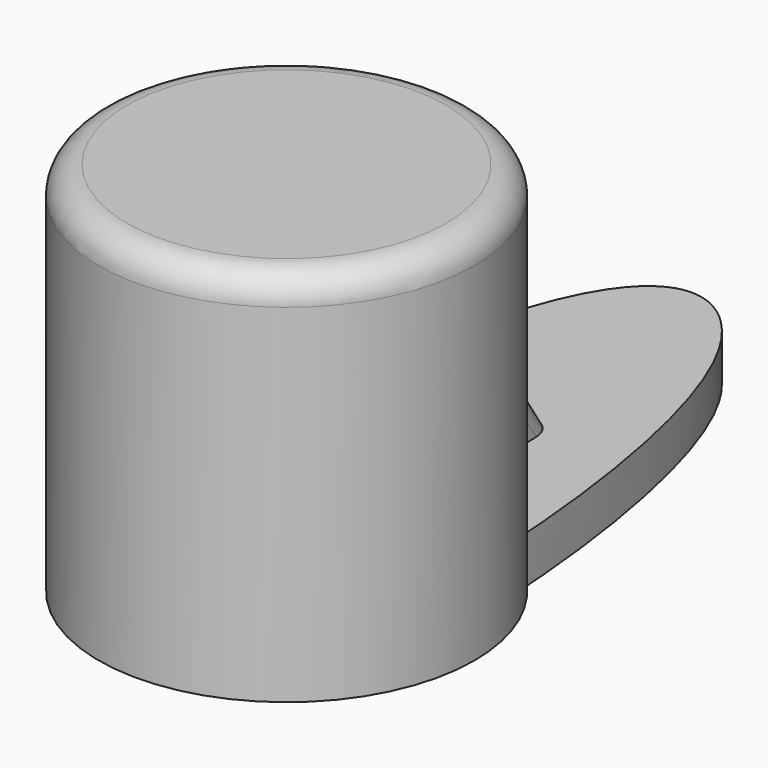
from build123d import *

# Parameters (mm, degrees)
SKETCH_R     = 20
PAD_DEPTH    = 40
SKETCH001_R  = 18
POCKET_DEPTH = 35
FILLET_R     = 18
FILLET001_R  = 3
PAD001_DEPTH = 5
PAD002_DEPTH = 5
FILLET002_R  = 2


with BuildPart() as part:
    # Sketch → Pad (new body)
    with BuildSketch(Plane.XY):
        Circle(SKETCH_R)
    extrude(amount=PAD_DEPTH)

    # Sketch001 (on Face2 of Pad) → Pocket (cut)
    with BuildSketch(Plane(origin=(0, 0, 0), x_dir=(1, 0, 0), z_dir=(0, 0, -1))):
        Circle(SKETCH001_R)
    extrude(amount=-POCKET_DEPTH, mode=Mode.SUBTRACT)

    # Fillet
    fillet_edges = [part.edges().sort_by_distance(p)[0] for p in [
        (-18, 0, 35),
    ]]
    fillet(fillet_edges, radius=FILLET_R)

    # Fillet001
    fillet001_edges = [part.edges().sort_by_distance(p)[0] for p in [
        (-20, 0, 40),
    ]]
    fillet(fillet001_edges, radius=FILLET001_R)

    # Sketch002 (on Face3 of Fillet001) → Pad001 (join)
    with BuildSketch(Plane(origin=(0, 0, 0), x_dir=(1, 0, 0), z_dir=(0, 0, -1))):
        with BuildLine():
            add(Edge.make_bspline(
                [(-15, -13.228757), (-12.5, -60.801779), (12.5, -60.801779), (15, -13.228757), (15, -13.228757)],
                knots=[0, 0, 0, 0, 0.5, 1, 1, 1, 1], degree=3))
            Line((15, -13.228757), (9.755599, -16.368215))
            Line((9.755599, -16.368215), (2.922141, -18.626266))
            Line((2.922141, -18.626266), (-4.636806, -18.626266))
            Line((-4.636806, -18.626266), (-15, -13.228757))
        make_face()
    extrude(amount=-PAD001_DEPTH)

    # Sketch003 (on DatumPlane) → Pad002 (join, symmetric)
    with BuildSketch(Plane(origin=(-0.443704, 36.200309, 2.5), x_dir=(0, 0, -1), z_dir=(0.999439, 0.033491, 0))):
        Polygon((-2.4, -16.790791), (-17.4, -16.790791), (-2.4, -6.790791), align=None)
    extrude(amount=PAD002_DEPTH, both=True)

    # Fillet002
    fillet002_edges = [part.edges().sort_by_distance(p)[0] for p in [
        (-5.047294, 24.286952, 12.342556),
        (4.949495, 24.550274, 12.45),
    ]]
    fillet(fillet002_edges, radius=FILLET002_R)


solid = part.part
